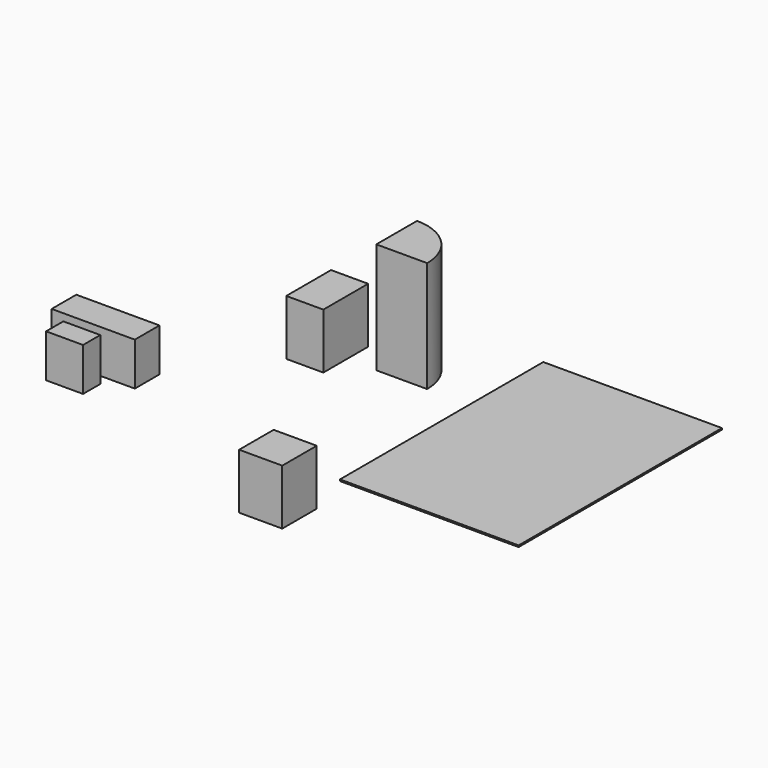
from build123d import *

# Parameters (mm, degrees)
F0_W      = 2946.4
F0_H      = 4191
F3_DEPTH  = 25.4
F1_W      = 508
F1_H      = 1371.6
F4_DEPTH  = 711.2
F2_W      = 355.6
F2_H      = 609.6
F5_DEPTH  = 711.2
F6_W      = 711.2
F6_H      = 711.2
F7_DEPTH  = 914.4
F9_DEPTH  = 1828.8
F10_W     = 611.8879318237
F10_H     = 923.4979152679
F11_DEPTH = 914.4
F12_ANGLE = 90


with BuildPart() as f3:
    # F0 (on Top) → F3 (new body)
    with BuildSketch(Plane.XY):
        with Locations((1473.2, 2095.5)):
            Rectangle(F0_W, F0_H)
    extrude(amount=F3_DEPTH)


with BuildPart() as f4:
    # F1 (on Top) → F4 (new body)
    with BuildSketch(Plane.XY):
        with Locations((-1058.4250984246, 539.1017794609)):
            Rectangle(F1_W, F1_H)
    extrude(amount=F4_DEPTH)


with BuildPart() as f5:
    # F2 (on Top) → F5 (new body)
    with BuildSketch(Plane.XY):
        with Locations((-449.2675215006, 492.5245585387)):
            Rectangle(F2_W, F2_H)
    extrude(amount=F5_DEPTH)


with BuildPart() as f7:
    # F6 (on Top) → F7 (new body)
    with BuildSketch(Plane.XY):
        with Locations((-108.6732386347, -1143.3587372303)):
            Rectangle(F6_W, F6_H)
    extrude(amount=F7_DEPTH)


with BuildPart() as f9:
    # F8 (on Top) → F9 (new body)
    with BuildSketch(Plane.XY):
        with BuildLine():
            ThreePointArc((-726.8207669258, 2705.8131694794), (-972.456418182, 3298.6907661199), (-1565.3339624405, 3544.326543808))
            Line((-1565.3339624405, 3544.326543808), (-1565.3339624405, 2705.8131694794))
            Line((-1565.3339624405, 2705.8131694794), (-726.8207669258, 2705.8131694794))
        make_face()
    extrude(amount=F9_DEPTH)


with BuildPart() as f11:
    # F10 (on Top) → F11 (new body)
    with BuildSketch(Plane.XY):
        with Locations((-2364.1879558563, 2691.6490793228)):
            Rectangle(F10_W, F10_H)
    extrude(amount=F11_DEPTH)


with BuildPart() as f4_1:
    # F12: moved
    add(f4.part.rotate(Axis((-2670.1319217682, 2229.9001216888, 457.2), (0, 0, -1)), F12_ANGLE))


with BuildPart() as f5_1:
    # F12: moved
    add(f5.part.rotate(Axis((-2670.1319217682, 2229.9001216888, 457.2), (0, 0, -1)), F12_ANGLE))


solid = Compound([f3.part, f7.part, f9.part, f11.part, f4_1.part, f5_1.part])
